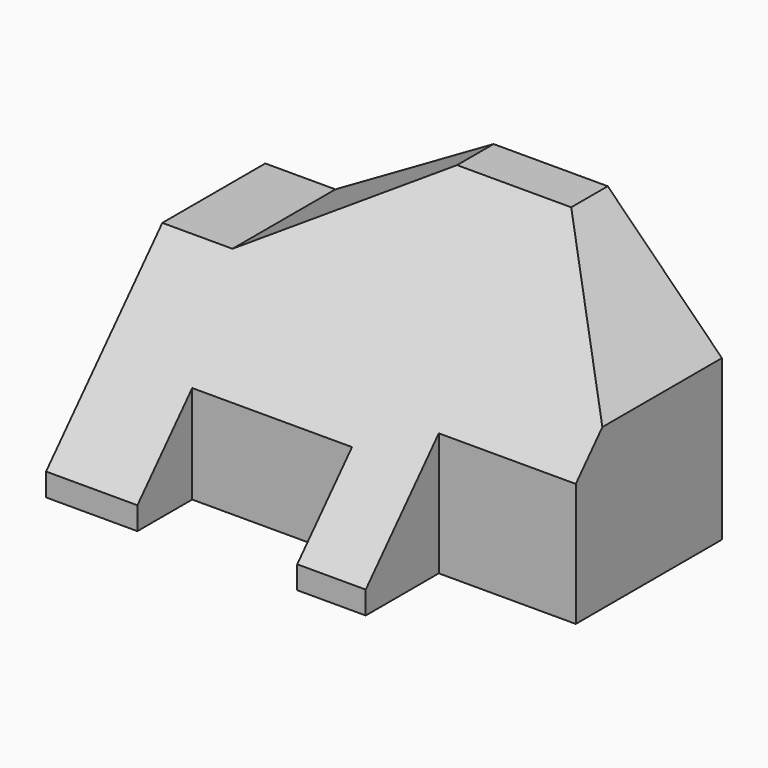
from build123d import *

# Parameters (mm, degrees)
F1_DEPTH = 60
F3_DEPTH = 60.001
F5_DEPTH = 100.001


with BuildPart() as f1:
    # F0 (on Top) → F1 (new body)
    with BuildSketch(Plane.XY):
        Polygon((0, 60), (0, 0), (20, 0), (20, 15), (55, 15), (55, 0), (70, 0), (70, 20), (100, 20), (100, 60), align=None)
    extrude(amount=F1_DEPTH)

    # F2 (on Front) → F3 (cut, through all)
    with BuildSketch(Plane.XZ):
        Polygon((0, 60), (0, 40), (15.358984, 40), (50, 60), align=None)
        Polygon((100, 60), (75, 60), (100, 35), align=None)
    extrude(amount=-F3_DEPTH, mode=Mode.SUBTRACT)

    # F4 (on Right) → F5 (cut, through all)
    with BuildSketch(Plane.YZ):
        Polygon((0, 60), (0, 5), (50, 60), align=None)
    extrude(amount=F5_DEPTH, mode=Mode.SUBTRACT)


solid = f1.part
